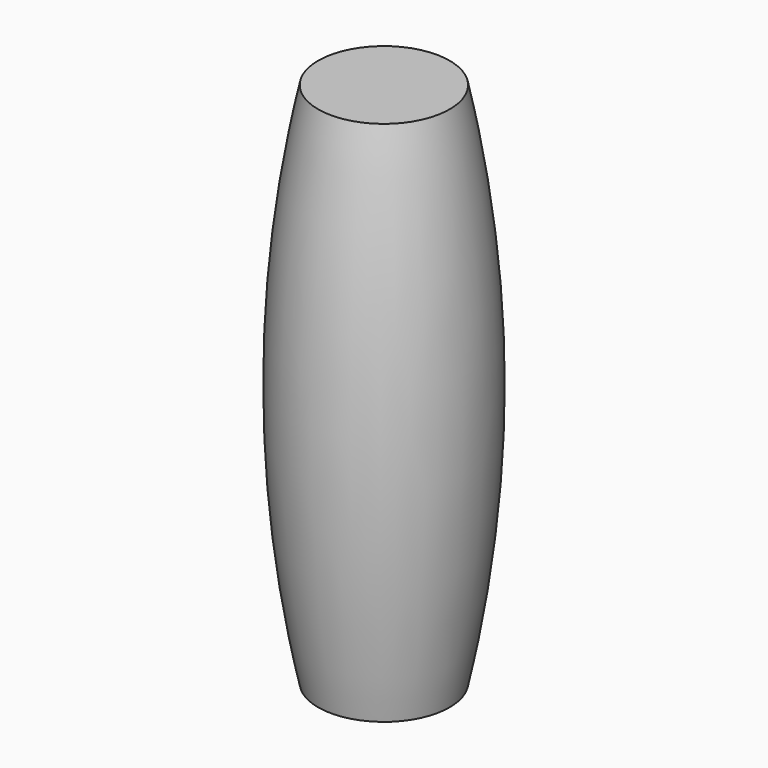
from build123d import *


with BuildPart() as f1:
    # F0 (on Front) → F1 (revolve)
    with BuildSketch(Plane.XZ):
        with BuildLine():
            Line((9.525, 76.2), (0, 76.2))
            ThreePointArc((0, 76.2), (-4.130112, 38.1), (0, 0))
            Line((0, 0), (9.525, 0))
            Line((9.525, 0), (9.525, 76.2))
        make_face()
    revolve(axis=Axis((9.525, 0, 38.1), (0, 0, -1)))


solid = f1.part
